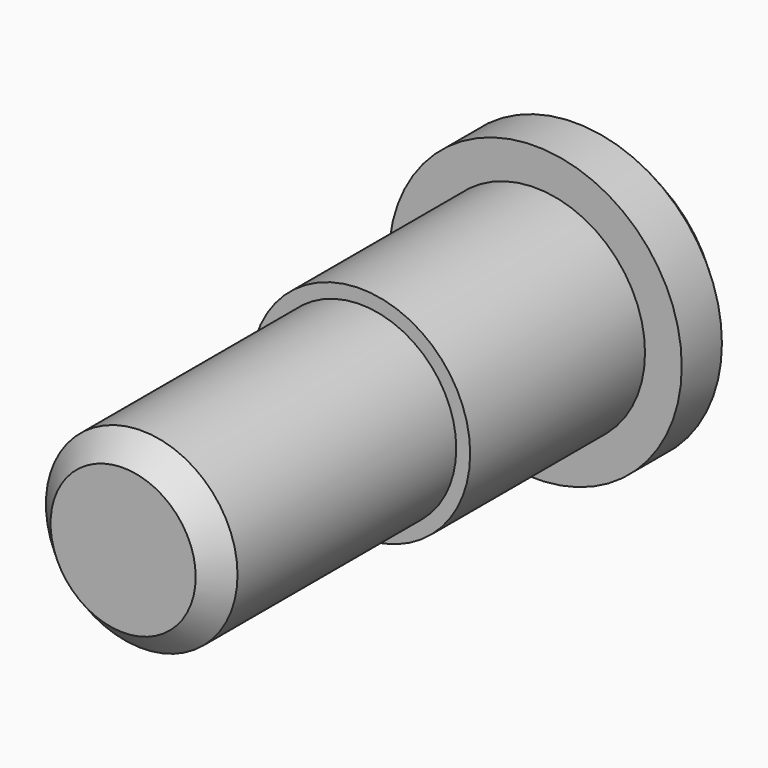
from build123d import *

# Parameters (mm, degrees)
F0_R     = 2.9972
F0_R_2   = 2.61701
F1_DEPTH = 7.9756
F0_R_3   = 4.0005
F2_DEPTH = 2.0066
F3_DEPTH = 16.0782
F4_SIZE  = 0.635


with BuildPart() as f1:
    # F0 (on Front) → F1 (new body)
    with BuildSketch(Plane.XZ):
        Circle(F0_R)
        Circle(F0_R_2, mode=Mode.SUBTRACT)
    extrude(amount=F1_DEPTH)

    # F0 (on Front) → F2 (join)
    with BuildSketch(Plane.XZ):
        Circle(F0_R_3)
        Circle(F0_R, mode=Mode.SUBTRACT)
    extrude(amount=F2_DEPTH)

    # F0 (on Front) → F3 (join)
    with BuildSketch(Plane.XZ):
        Circle(F0_R_2)
    extrude(amount=F3_DEPTH)

    # F4
    f4_edges = [f1.edges().sort_by_distance(p)[0] for p in [
        (-4.0005, 0, 0),
        (-2.61701, -16.0782, 0),
    ]]
    chamfer(f4_edges, length=F4_SIZE)


solid = f1.part
